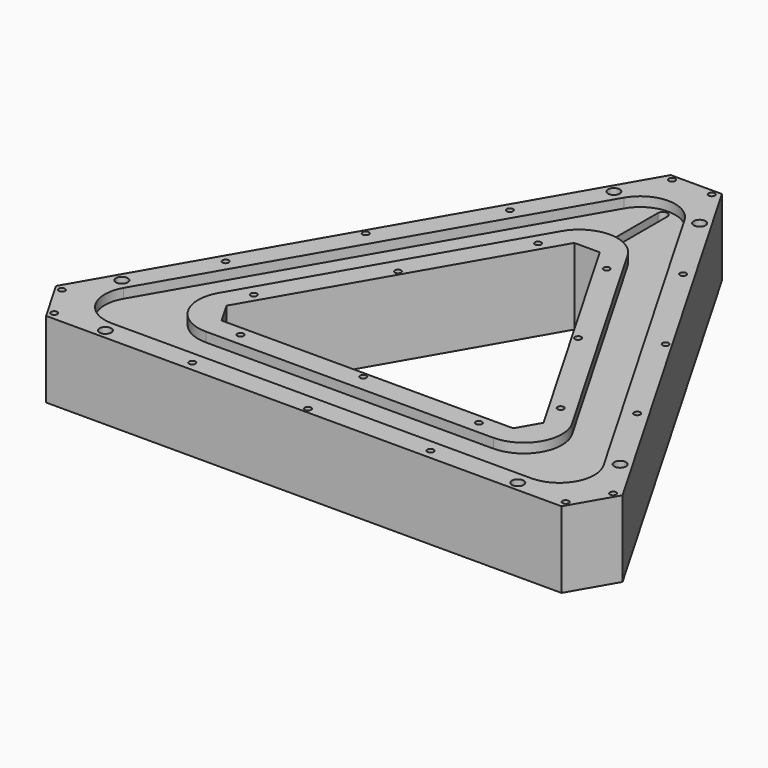
from build123d import *

# Parameters (mm, degrees)
PAD_DEPTH             = 24
POCKET_DEPTH          = 3
SKETCH002_W           = 70
SKETCH002_H           = 18.5
POCKET001_DEPTH       = 18
POLARPATTERN_COUNT    = 3
POCKET002_DEPTH       = 6
CHAMFER_SIZE          = 8
FILLET_R              = 13
FILLET001_R           = 11
CHAMFER001_SIZE       = 16.1
FILLET002_R           = 11
FILLET003_R           = 12
POCKET003_DEPTH       = 6
POCKET004_DEPTH       = 18
POCKET005_DEPTH       = 21.001
SKETCH012_R           = 1.85
SKETCH012_R_2         = 0.99
POCKET011_DEPTH       = 498.049286
POLARPATTERN001_COUNT = 3


with BuildPart() as part:
    # Sketch → Pad (new body)
    with BuildSketch(Plane.XY):
        Polygon((0, 112.209492), (-97.17627, -56.104746), (97.17627, -56.104746), align=None)
        Polygon((0, 62.209492), (-53.875, -31.104746), (53.875, -31.104746), align=None, mode=Mode.SUBTRACT)
    extrude(amount=PAD_DEPTH)

    # Sketch001 (on Face8 of Pad) → Pocket (cut)
    with BuildSketch(Plane.XY.offset(24)):
        Polygon((0, 98.209492), (-85.051915, -49.104746), (85.051915, -49.104746), align=None)
        Polygon((0, 76.209492), (-65.999356, -38.104746), (65.999356, -38.104746), align=None, mode=Mode.SUBTRACT)
    extrude(amount=-POCKET_DEPTH, mode=Mode.SUBTRACT)

    # Sketch002 (on Face4 of Pocket) → Pocket001 (cut)
    with BuildSketch(Plane(origin=(0, 0, 0), x_dir=(1, 0, 0), z_dir=(0, 0, -1))):
        with Locations((0, 43.604746)):
            Rectangle(SKETCH002_W, SKETCH002_H)
    pocket001 = extrude(amount=-POCKET001_DEPTH, mode=Mode.SUBTRACT)

    # PolarPattern: Pocket001 ×3 about axis
    polarpattern_axis = Axis((0, 0, 0), (0, 0, -1))
    for i in range(1, POLARPATTERN_COUNT):
        add(pocket001.rotate(polarpattern_axis, i * 360 / POLARPATTERN_COUNT), mode=Mode.SUBTRACT)

    # Sketch003 (on Face4 of PolarPattern) → Pocket002 (cut)
    with BuildSketch(Plane(origin=(0, 0, 0), x_dir=(1, 0, 0), z_dir=(0, 0, -1))):
        Polygon((0, -100.209492), (86.783965, 50.104746), (-86.783965, 50.104746), align=None)
        Polygon((0, -74.209492), (64.267305, 37.104746), (-64.267305, 37.104746), align=None, mode=Mode.SUBTRACT)
    extrude(amount=-POCKET002_DEPTH, mode=Mode.SUBTRACT)

    # Chamfer
    chamfer_edges = [part.edges().sort_by_distance(p)[0] for p in [
        (-53.875, -31.104746, 12),
        (53.875, -31.104746, 12),
        (0, 62.209492, 12),
    ]]
    chamfer(chamfer_edges, length=CHAMFER_SIZE)

    # Fillet
    fillet_edges = [part.edges().sort_by_distance(p)[0] for p in [
        (0, 100.209492, 3),
        (-86.783965, -50.104746, 3),
        (86.783965, -50.104746, 3),
    ]]
    fillet(fillet_edges, radius=FILLET_R)

    # Fillet001
    fillet001_edges = [part.edges().sort_by_distance(p)[0] for p in [
        (0, 74.209492, 3),
        (64.267305, -37.104746, 3),
        (-64.267305, -37.104746, 3),
    ]]
    fillet(fillet001_edges, radius=FILLET001_R)

    # Chamfer001
    chamfer001_edges = [part.edges().sort_by_distance(p)[0] for p in [
        (97.17627, -56.104746, 12),
        (0, 112.209492, 12),
        (-97.17627, -56.104746, 12),
    ]]
    chamfer(chamfer001_edges, length=CHAMFER001_SIZE)

    # Fillet002
    fillet002_edges = [part.edges().sort_by_distance(p)[0] for p in [
        (0, 98.209492, 22.5),
        (-85.051915, -49.104746, 22.5),
        (85.051915, -49.104746, 22.5),
    ]]
    fillet(fillet002_edges, radius=FILLET002_R)

    # Fillet003
    fillet003_edges = [part.edges().sort_by_distance(p)[0] for p in [
        (65.999356, -38.104746, 22.5),
        (0, 76.209492, 22.5),
        (-65.999356, -38.104746, 22.5),
    ]]
    fillet(fillet003_edges, radius=FILLET003_R)

    # Sketch004 (on Face60 of Fillet003) → Pocket003 (cut)
    with BuildSketch(Plane(origin=(0, 0, 6), x_dir=(1, 0, 0), z_dir=(0, 0, -1))):
        Polygon((-8.75, -71.266483), (8.75, -71.266483), (8.75, -94.766483), (4, -94.766483), (4, -98.266483), (-4, -98.266483), (-4, -94.766483), (-8.75, -94.766483), align=None)
    extrude(amount=-POCKET003_DEPTH, mode=Mode.SUBTRACT)

    # Sketch005 (on Face29 of Pocket003) → Pocket004 (cut)
    with BuildSketch(Plane(origin=(0, 0, 0), x_dir=(1, 0, 0), z_dir=(0, 0, -1))):
        Polygon((46.171599, 38.954746), (68.688259, 51.954746), (79.338259, 33.508405), (56.821599, 20.508405), align=None)
    extrude(amount=-POCKET004_DEPTH, mode=Mode.SUBTRACT)

    # Sketch006 (on Face1 of Pocket004) → Pocket005 (cut, through all)
    with BuildSketch(Plane.XY.offset(21)):
        with BuildLine():
            ThreePointArc((1.5, 85.040452), (0, 86.540452), (-1.5, 85.040452))
            Line((-1.5, 85.040452), (-1.5, 66.040452))
            ThreePointArc((-1.5, 66.040452), (0, 64.540452), (1.5, 66.040452))
            Line((1.5, 85.040452), (1.5, 66.040452))
        make_face()
    extrude(amount=-POCKET005_DEPTH, mode=Mode.SUBTRACT)

    # Sketch012 → Pocket011 (cut, through all)
    with BuildSketch(Plane(origin=(0, 0, 0), x_dir=(1, 0, 0), z_dir=(0, 0, -1))):
        with Locations((-13.5, -82.703211)):
            Circle(SKETCH012_R)
        with Locations((13.5, -82.703211)):
            Circle(SKETCH012_R)
        with Locations((-6.25, -96.516483)):
            Circle(SKETCH012_R_2)
        with Locations((6.25, -96.516483)):
            Circle(SKETCH012_R_2)
        with Locations((-27.246325, -59.017473)):
            Circle(SKETCH012_R_2)
        with Locations((-47.186207, -27.240583)):
            Circle(SKETCH012_R_2)
        with Locations((-64.733793, 5.912727)):
            Circle(SKETCH012_R_2)
        with Locations((-10.791842, -49.517473)):
            Circle(SKETCH012_R_2)
        with Locations((-28.339428, -16.364163)):
            Circle(SKETCH012_R_2)
        with Locations((-48.279311, 15.412727)):
            Circle(SKETCH012_R_2)
    pocket011 = extrude(amount=-POCKET011_DEPTH, mode=Mode.SUBTRACT)

    # PolarPattern001: Pocket011 ×3 about axis
    polarpattern001_axis = Axis((0, 0, 0), (0, 0, -1))
    for i in range(1, POLARPATTERN001_COUNT):
        add(pocket011.rotate(polarpattern001_axis, i * 360 / POLARPATTERN001_COUNT), mode=Mode.SUBTRACT)


solid = part.part
